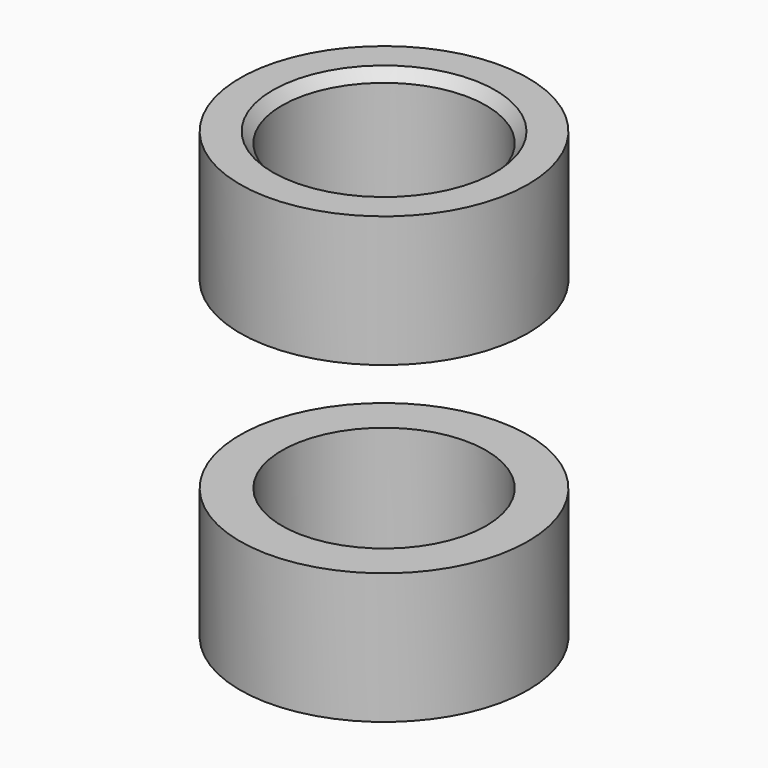
from build123d import *

# Parameters (mm, degrees)
F0_R           = 5.5
F1_DEPTH       = 17
F3_R           = 5.5
F3_R_2         = 3.9
F4_DEPTH       = 7
F6_R           = 3.9
F7_DEPTH       = 0.1
F9_D           = 4.5
F9_CSINK_D     = 8.5
F9_CSINK_ANGLE = 82
F10_R          = 3.9
F11_DEPTH      = 17.001


with BuildPart() as f1:
    # F0 (on Top) → F1 (new body)
    with BuildSketch(Plane.XY):
        Circle(F0_R)
    extrude(amount=F1_DEPTH)

    # F3 (on offset) → F4 (cut)
    with BuildSketch(Plane(origin=(0, 0, 5), x_dir=(1, 0, 0), z_dir=(0, 0, -1))):
        Circle(F3_R)
        Circle(F3_R_2, mode=Mode.SUBTRACT)
    extrude(amount=-F4_DEPTH, mode=Mode.SUBTRACT)

    # F6 (on offset) → F7 (cut)
    with BuildSketch(Plane.XY.offset(8.5)):
        Circle(F6_R)
    extrude(amount=F7_DEPTH, mode=Mode.SUBTRACT)

    # F9 (through all)
    with Locations(Plane.XY.offset(17)):
        with Locations((0, 0)):
            CounterSinkHole(F9_D / 2, F9_CSINK_D / 2, counter_sink_angle=F9_CSINK_ANGLE)

    # F10 (on face) → F11 (cut, through all)
    with BuildSketch(Plane(origin=(0, 0, 0), x_dir=(1, 0, 0), z_dir=(0, 0, -1))):
        Circle(F10_R)
    extrude(amount=-F11_DEPTH, mode=Mode.SUBTRACT)


solid = f1.part
